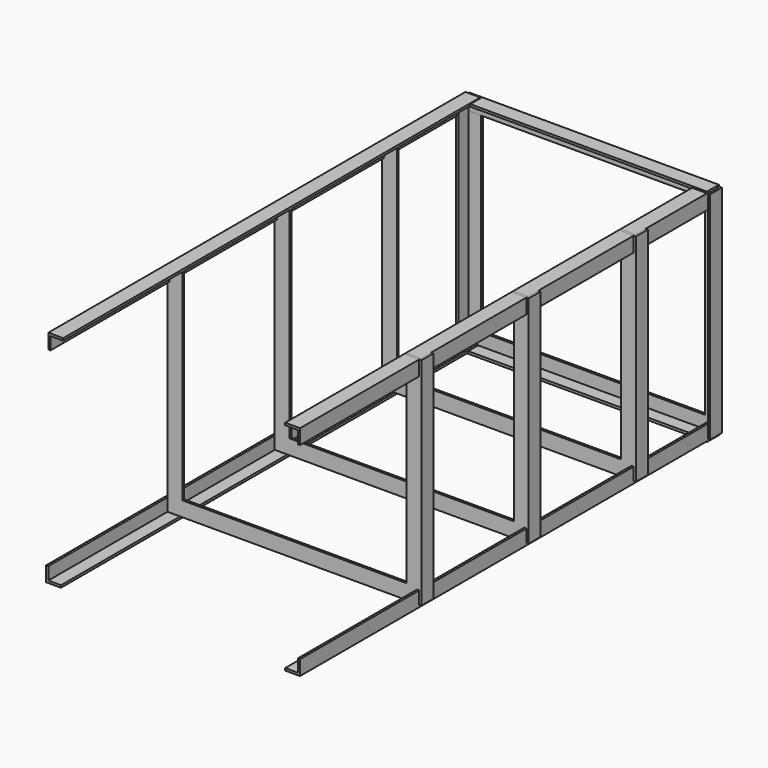
from build123d import *

# Parameters (mm, degrees)
EXTRUDE_DEPTH            = 700
EXTRUDE001_DEPTH         = 290
PAD001_DEPTH             = 335
EXTRUDE002_DEPTH         = 290
CLONE003_PLACEMENT_ANGLE = 180
EXTRUDE004_DEPTH         = 335
CLONE004_PLACEMENT_ANGLE = 180


with BuildPart() as body002:
    # Sketch002 → Extrude (new body)
    with BuildSketch(Plane.XZ):
        Polygon((0, 0), (17, 0), (17, -3), (-3, -3), (-3, 17), (0, 17), align=None)
        Polygon((318, 0), (318, -3), (338, -3), (338, 17), (335, 17), (335, 0), align=None)
        Polygon((0, 293), (20, 293), (20, 290), (3, 290), (3, 273), (0, 273), align=None)
        Polygon((338, 290), (318, 290), (318, 287), (335, 287), (335, 270), (338, 270), align=None)
    extrude(amount=-EXTRUDE_DEPTH)


with BuildPart() as body:
    # Sketch → Extrude001 (new body)
    with BuildSketch(Plane.XY):
        Polygon((0, 0), (20, 0), (20, 3), (3, 3), (3, 20), (0, 20), align=None)
        Polygon((321, 0), (341, 0), (341, 20), (338, 20), (338, 3), (321, 3), align=None)
    extrude(amount=EXTRUDE001_DEPTH)

    # Sketch001 → Pad001 (new body)
    with BuildSketch(Plane.YZ):
        Polygon((0, 0), (20, 0), (19.754, 3), (3, 3), (3, 20), (0, 20), align=None)
    extrude(amount=PAD001_DEPTH)


with BuildPart() as g10:
    # Body003 base: copy of Body
    add(body.part)


with BuildPart() as g10_1:
    # Clone placement: moved
    add(g10.part.moved(Location((0, 200, 0))))


with BuildPart() as g38:
    # Body004 base: copy of Body
    add(body.part)


with BuildPart() as g38_1:
    # Clone001 placement: moved
    add(g38.part.moved(Location((0, 380, 0))))


with BuildPart() as g56:
    # Body005 base: copy of Body
    add(body.part)


with BuildPart() as g56_1:
    # Clone002 placement: moved
    add(g56.part.moved(Location((0, 560, 0))))


with BuildPart() as body007:
    # Sketch003 → Extrude002 (new body)
    with BuildSketch(Plane.XY):
        Polygon((0, 0), (20, 0), (20, 3), (3, 3), (3, 20), (0, 20), align=None)
        Polygon((321, 0), (341, 0), (341, 20), (338, 20), (338, 3), (321, 3), align=None)
    extrude(amount=EXTRUDE002_DEPTH)


with BuildPart() as body007_1:
    # Clone003 placement: moved
    add(body007.part.moved(Location((342, 703, 0))).rotate(Axis((342, 703, 0), (0, 0, 1)), CLONE003_PLACEMENT_ANGLE))


with BuildPart() as body008:
    # Sketch004 → Extrude004 (new body)
    with BuildSketch(Plane.YZ):
        Polygon((0, 0), (20, 0), (19.754, 3), (3, 3), (3, 20), (0, 20), align=None)
        Polygon((0, 296), (0, 276), (3, 276), (3, 293), (20, 293), (20, 296), align=None)
    extrude(amount=EXTRUDE004_DEPTH)


with BuildPart() as body008_1:
    # Clone004 placement: moved
    add(body008.part.moved(Location((338, 703, -4))).rotate(Axis((338, 703, -4), (0, 0, 1)), CLONE004_PLACEMENT_ANGLE))


solid = Compound([body002.part, g10_1.part, g38_1.part, g56_1.part, body007_1.part, body008_1.part])
